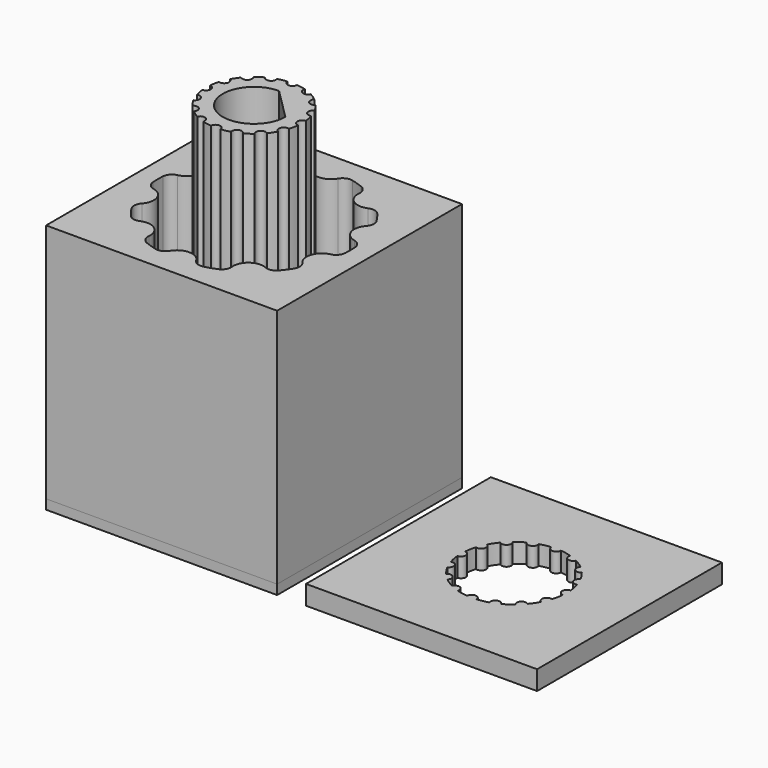
from build123d import *

# Parameters (mm, degrees)
F3_DEPTH      = 25
F4_DEPTH      = 35
F5_DEPTH      = 1
F6_DEPTH      = 1
F6_DEPTH_BACK = 1


with BuildPart() as f3:
    # F0 (on Top) → F3 (new body)
    with BuildSketch(Plane.XY):
        Polygon((12, -12), (12, 0), (12, 12), (-12, 12), (-12, -12), align=None)
        with BuildLine():
            ThreePointArc((-3.6908249871, 9.2939663715), (-3.0901699437, 9.510565163), (-2.4769162307, 9.6883892359))
            ThreePointArc((-2.4769162307, 9.6883892359), (-1.8402107018, 9.6407821947), (-1.3620907221, 9.2176254318))
            ThreePointArc((-1.3620907221, 9.2176254318), (0, 8.4292036732), (1.3620907221, 9.2176254318))
            ThreePointArc((1.3620907221, 9.2176254318), (1.8402107018, 9.6407821947), (2.4769162307, 9.6883892359))
            ThreePointArc((2.4769162307, 9.6883892359), (3.0901699437, 9.510565163), (3.6908249871, 9.2939663715))
            ThreePointArc((3.6908249871, 9.2939663715), (4.1779478636, 8.8812053462), (4.3160297479, 8.2578324609))
            ThreePointArc((4.3160297479, 8.2578324609), (4.9545616077, 6.8193690207), (6.5199388321, 6.6565987834))
            ThreePointArc((6.5199388321, 6.6565987834), (7.1554713256, 6.7179079229), (7.6985596356, 6.3821767084))
            ThreePointArc((7.6985596356, 6.3821767084), (8.0901699437, 5.8778525229), (8.4487965063, 5.3495642435))
            ThreePointArc((8.4487965063, 5.3495642435), (8.6002723483, 4.7293099165), (8.3455735507, 4.1438281633))
            ThreePointArc((8.3455735507, 4.1438281633), (8.0166490806, 2.6047671841), (9.1873919127, 1.5529776491))
            ThreePointArc((9.1873919127, 1.5529776491), (9.7375851085, 1.2290211579), (9.9796149241, 0.6381896005))
            ThreePointArc((9.9796149241, 0.6381896005), (10, 0), (9.9796149241, -0.6381896005))
            ThreePointArc((9.9796149241, -0.6381896005), (9.7375851085, -1.2290211579), (9.1873919127, -1.5529776491))
            ThreePointArc((9.1873919127, -1.5529776491), (8.0166490806, -2.6047671841), (8.3455735507, -4.1438281633))
            ThreePointArc((8.3455735507, -4.1438281633), (8.6002723483, -4.7293099165), (8.4487965063, -5.3495642435))
            ThreePointArc((8.4487965063, -5.3495642435), (8.0901699437, -5.8778525229), (7.6985596356, -6.3821767084))
            ThreePointArc((7.6985596356, -6.3821767084), (7.1554713256, -6.7179079229), (6.5199388321, -6.6565987834))
            ThreePointArc((6.5199388321, -6.6565987834), (4.9545616077, -6.8193690207), (4.3160297479, -8.2578324609))
            ThreePointArc((4.3160297479, -8.2578324609), (4.1779478636, -8.8812053462), (3.6908249871, -9.2939663715))
            ThreePointArc((3.6908249871, -9.2939663715), (3.0901699437, -9.510565163), (2.4769162307, -9.6883892359))
            ThreePointArc((2.4769162307, -9.6883892359), (1.8402107018, -9.6407821947), (1.3620907221, -9.2176254318))
            ThreePointArc((1.3620907221, -9.2176254318), (0, -8.4292036732), (-1.3620907221, -9.2176254318))
            ThreePointArc((-1.3620907221, -9.2176254318), (-1.8402107018, -9.6407821947), (-2.4769162307, -9.6883892359))
            ThreePointArc((-2.4769162307, -9.6883892359), (-3.0901699437, -9.510565163), (-3.6908249871, -9.2939663715))
            ThreePointArc((-3.6908249871, -9.2939663715), (-4.1779478636, -8.8812053462), (-4.3160297479, -8.2578324609))
            ThreePointArc((-4.3160297479, -8.2578324609), (-4.9545616077, -6.8193690207), (-6.5199388321, -6.6565987834))
            ThreePointArc((-6.5199388321, -6.6565987834), (-7.1554713256, -6.7179079229), (-7.6985596356, -6.3821767084))
            ThreePointArc((-7.6985596356, -6.3821767084), (-8.0901699437, -5.8778525229), (-8.4487965063, -5.3495642435))
            ThreePointArc((-8.4487965063, -5.3495642435), (-8.6002723483, -4.7293099165), (-8.3455735507, -4.1438281633))
            ThreePointArc((-8.3455735507, -4.1438281633), (-8.0166490806, -2.6047671841), (-9.1873919127, -1.5529776491))
            ThreePointArc((-9.1873919127, -1.5529776491), (-9.7375851085, -1.2290211579), (-9.9796149241, -0.6381896005))
            ThreePointArc((-9.9796149241, -0.6381896005), (-10, 0), (-9.9796149241, 0.6381896005))
            ThreePointArc((-9.9796149241, 0.6381896005), (-9.7375851085, 1.2290211579), (-9.1873919127, 1.5529776491))
            ThreePointArc((-9.1873919127, 1.5529776491), (-8.0166490806, 2.6047671841), (-8.3455735507, 4.1438281633))
            ThreePointArc((-8.3455735507, 4.1438281633), (-8.6002723483, 4.7293099165), (-8.4487965063, 5.3495642435))
            ThreePointArc((-8.4487965063, 5.3495642435), (-8.0901699437, 5.8778525229), (-7.6985596356, 6.3821767084))
            ThreePointArc((-7.6985596356, 6.3821767084), (-7.1554713256, 6.7179079229), (-6.5199388321, 6.6565987834))
            ThreePointArc((-6.5199388321, 6.6565987834), (-4.9545616077, 6.8193690207), (-4.3160297479, 8.2578324609))
            ThreePointArc((-4.3160297479, 8.2578324609), (-4.1779478636, 8.8812053462), (-3.6908249871, 9.2939663715))
        make_face(mode=Mode.SUBTRACT)
    extrude(amount=F3_DEPTH)


with BuildPart() as f4:
    # F0 (on Top) → F4 (new body)
    with BuildSketch(Plane.XY):
        with BuildLine():
            ThreePointArc((0.4993746089, 4.975), (0, 4.5), (-0.4993746089, 4.975))
            ThreePointArc((-0.4993746089, 4.975), (-0.9754516101, 4.903926402), (-1.4424880958, 4.7874030636))
            ThreePointArc((-1.4424880958, 4.7874030636), (-1.7220754456, 4.1574578963), (-2.3652120562, 4.4051982849))
            ThreePointArc((-2.3652120562, 4.4051982849), (-2.7778511651, 4.1573480615), (-3.1647450641, 3.8709674087))
            ThreePointArc((-3.1647450641, 3.8709674087), (-3.1819805153, 3.1819805153), (-3.8709674087, 3.1647450641))
            ThreePointArc((-3.8709674087, 3.1647450641), (-4.1573480615, 2.7778511651), (-4.4051982849, 2.3652120562))
            ThreePointArc((-4.4051982849, 2.3652120562), (-4.1574578963, 1.7220754456), (-4.7874030636, 1.4424880958))
            ThreePointArc((-4.7874030636, 1.4424880958), (-4.903926402, 0.9754516101), (-4.975, 0.4993746089))
            ThreePointArc((-4.975, 0.4993746089), (-4.5, 0), (-4.975, -0.4993746089))
            ThreePointArc((-4.975, -0.4993746089), (-4.903926402, -0.9754516101), (-4.7874030636, -1.4424880958))
            ThreePointArc((-4.7874030636, -1.4424880958), (-4.1574578963, -1.7220754456), (-4.4051982849, -2.3652120562))
            ThreePointArc((-4.4051982849, -2.3652120562), (-4.1573480615, -2.7778511651), (-3.8709674087, -3.1647450641))
            ThreePointArc((-3.8709674087, -3.1647450641), (-3.1819805153, -3.1819805153), (-3.1647450641, -3.8709674087))
            ThreePointArc((-3.1647450641, -3.8709674087), (-2.7778511651, -4.1573480615), (-2.3652120562, -4.4051982849))
            ThreePointArc((-2.3652120562, -4.4051982849), (-1.7220754456, -4.1574578963), (-1.4424880958, -4.7874030636))
            ThreePointArc((-1.4424880958, -4.7874030636), (-0.9754516101, -4.903926402), (-0.4993746089, -4.975))
            ThreePointArc((-0.4993746089, -4.975), (0, -4.5), (0.4993746089, -4.975))
            ThreePointArc((0.4993746089, -4.975), (0.9754516101, -4.903926402), (1.4424880958, -4.7874030636))
            ThreePointArc((1.4424880958, -4.7874030636), (1.7220754456, -4.1574578963), (2.3652120562, -4.4051982849))
            ThreePointArc((2.3652120562, -4.4051982849), (2.7778511651, -4.1573480615), (3.1647450641, -3.8709674087))
            ThreePointArc((3.1647450641, -3.8709674087), (3.1819805153, -3.1819805153), (3.8709674087, -3.1647450641))
            ThreePointArc((3.8709674087, -3.1647450641), (4.1573480615, -2.7778511651), (4.4051982849, -2.3652120562))
            ThreePointArc((4.4051982849, -2.3652120562), (4.1574578963, -1.7220754456), (4.7874030636, -1.4424880958))
            ThreePointArc((4.7874030636, -1.4424880958), (4.903926402, -0.9754516101), (4.975, -0.4993746089))
            ThreePointArc((4.975, -0.4993746089), (4.5, 0), (4.975, 0.4993746089))
            ThreePointArc((4.975, 0.4993746089), (4.903926402, 0.9754516101), (4.7874030636, 1.4424880958))
            ThreePointArc((4.7874030636, 1.4424880958), (4.1574578963, 1.7220754456), (4.4051982849, 2.3652120562))
            ThreePointArc((4.4051982849, 2.3652120562), (4.1573480615, 2.7778511651), (3.8709674087, 3.1647450641))
            ThreePointArc((3.8709674087, 3.1647450641), (3.1819805153, 3.1819805153), (3.1647450641, 3.8709674087))
            ThreePointArc((3.1647450641, 3.8709674087), (2.7778511651, 4.1573480615), (2.3652120562, 4.4051982849))
            ThreePointArc((2.3652120562, 4.4051982849), (1.7220754456, 4.1574578963), (1.4424880958, 4.7874030636))
            ThreePointArc((1.4424880958, 4.7874030636), (0.9754516101, 4.903926402), (0.4993746089, 4.975))
        make_face()
        with BuildLine():
            ThreePointArc((3.25, 0), (-2.2980970389, -2.2980970389), (0, 3.25))
            Line((0, 3.25), (3.25, 0))
        make_face(mode=Mode.SUBTRACT)
    extrude(amount=F4_DEPTH)


with BuildPart() as f5:
    # F1 (on Top) → F5 (new body)
    with BuildSketch(Plane.XY):
        Polygon((12, -12), (12, 0), (12, 12), (-12, 12), (-12, -12), align=None)
    extrude(amount=-F5_DEPTH)


with BuildPart() as f6:
    # F2 (on Top) → F6 (new body, two sides)
    with BuildSketch(Plane.XY) as f6_sk:
        Polygon((15, 12), (15, 0), (15, -12), (39, -12), (39, 12), align=None)
        with BuildLine():
            ThreePointArc((25.3654007817, 5.2514841136), (25.9270032289, 5.3943190422), (26.500516796, 5.4772727273))
            ThreePointArc((26.500516796, 5.4772727273), (27, 5), (27.499483204, 5.4772727273))
            ThreePointArc((27.499483204, 5.4772727273), (28.0729967711, 5.3943190422), (28.6345992183, 5.2514841136))
            ThreePointArc((28.6345992183, 5.2514841136), (28.9134171618, 4.6193976626), (29.5575238363, 4.8691962198))
            ThreePointArc((29.5575238363, 4.8691962198), (30.0556362816, 4.5730828677), (30.5198287272, 4.2262046485))
            ThreePointArc((30.5198287272, 4.2262046485), (30.5355339059, 3.5355339059), (31.2262046485, 3.5198287272))
            ThreePointArc((31.2262046485, 3.5198287272), (31.5730828677, 3.0556362816), (31.8691962198, 2.5575238363))
            ThreePointArc((31.8691962198, 2.5575238363), (31.6193976626, 1.9134171618), (32.2514841136, 1.6345992183))
            ThreePointArc((32.2514841136, 1.6345992183), (32.3943190422, 1.0729967711), (32.4772727273, 0.499483204))
            ThreePointArc((32.4772727273, 0.499483204), (32, 0), (32.4772727273, -0.499483204))
            ThreePointArc((32.4772727273, -0.499483204), (32.3943190422, -1.0729967711), (32.2514841136, -1.6345992183))
            ThreePointArc((32.2514841136, -1.6345992183), (31.6193976626, -1.9134171618), (31.8691962198, -2.5575238363))
            ThreePointArc((31.8691962198, -2.5575238363), (31.5730828677, -3.0556362816), (31.2262046485, -3.5198287272))
            ThreePointArc((31.2262046485, -3.5198287272), (30.5355339059, -3.5355339059), (30.5198287272, -4.2262046485))
            ThreePointArc((30.5198287272, -4.2262046485), (30.0556362816, -4.5730828677), (29.5575238363, -4.8691962198))
            ThreePointArc((29.5575238363, -4.8691962198), (28.9134171618, -4.6193976626), (28.6345992183, -5.2514841136))
            ThreePointArc((28.6345992183, -5.2514841136), (28.0729967711, -5.3943190422), (27.499483204, -5.4772727273))
            ThreePointArc((27.499483204, -5.4772727273), (27, -5), (26.500516796, -5.4772727273))
            ThreePointArc((26.500516796, -5.4772727273), (25.9270032289, -5.3943190422), (25.3654007817, -5.2514841136))
            ThreePointArc((25.3654007817, -5.2514841136), (25.0865828382, -4.6193976626), (24.4424761637, -4.8691962198))
            ThreePointArc((24.4424761637, -4.8691962198), (23.9443637184, -4.5730828677), (23.4801712728, -4.2262046485))
            ThreePointArc((23.4801712728, -4.2262046485), (23.4644660941, -3.5355339059), (22.7737953515, -3.5198287272))
            ThreePointArc((22.7737953515, -3.5198287272), (22.4269171323, -3.0556362816), (22.1308037802, -2.5575238363))
            ThreePointArc((22.1308037802, -2.5575238363), (22.3806023374, -1.9134171618), (21.7485158864, -1.6345992183))
            ThreePointArc((21.7485158864, -1.6345992183), (21.6056809578, -1.0729967711), (21.5227272727, -0.499483204))
            ThreePointArc((21.5227272727, -0.499483204), (22, 0), (21.5227272727, 0.499483204))
            ThreePointArc((21.5227272727, 0.499483204), (21.6056809578, 1.0729967711), (21.7485158864, 1.6345992183))
            ThreePointArc((21.7485158864, 1.6345992183), (22.3806023374, 1.9134171618), (22.1308037802, 2.5575238363))
            ThreePointArc((22.1308037802, 2.5575238363), (22.4269171323, 3.0556362816), (22.7737953515, 3.5198287272))
            ThreePointArc((22.7737953515, 3.5198287272), (23.4644660941, 3.5355339059), (23.4801712728, 4.2262046485))
            ThreePointArc((23.4801712728, 4.2262046485), (23.9443637184, 4.5730828677), (24.4424761637, 4.8691962198))
            ThreePointArc((24.4424761637, 4.8691962198), (25.0865828382, 4.6193976626), (25.3654007817, 5.2514841136))
        make_face(mode=Mode.SUBTRACT)
    extrude(amount=-F6_DEPTH)
    extrude(f6_sk.sketch, amount=F6_DEPTH_BACK)


solid = Compound([f3.part, f4.part, f5.part, f6.part])
